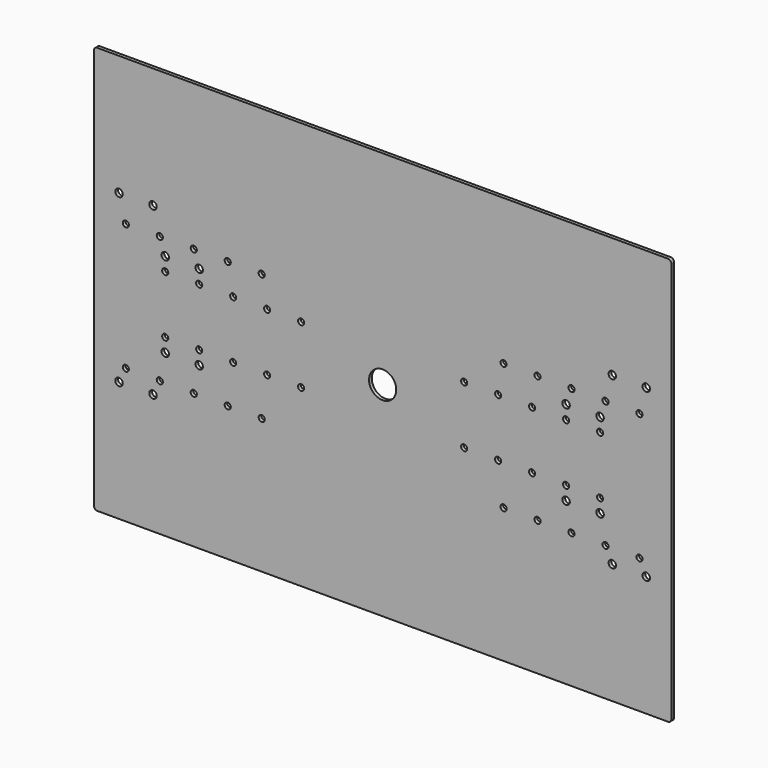
from build123d import *

# Parameters (mm, degrees)
F0_W     = 850
F0_H     = 600
F0_R     = 5.5
F0_R_2   = 4.5
F0_R_3   = 20
F1_DEPTH = 5
F2_R     = 5


with BuildPart() as f1:
    # F0 (on Front) → F1 (new body)
    with BuildSketch(Plane.XZ):
        Rectangle(F0_W, F0_H)
        with Locations((-388, -122.5)):
            Circle(F0_R, mode=Mode.SUBTRACT)
        with Locations((-338, -122.5)):
            Circle(F0_R, mode=Mode.SUBTRACT)
        with Locations((-378, -101.5)):
            Circle(F0_R_2, mode=Mode.SUBTRACT)
        with Locations((-328, -101.5)):
            Circle(F0_R_2, mode=Mode.SUBTRACT)
        with Locations((-278, -101.5)):
            Circle(F0_R_2, mode=Mode.SUBTRACT)
        with Locations((-228, -101.5)):
            Circle(F0_R_2, mode=Mode.SUBTRACT)
        with Locations((-320, -62.5)):
            Circle(F0_R, mode=Mode.SUBTRACT)
        with Locations((-320, -42.5)):
            Circle(F0_R_2, mode=Mode.SUBTRACT)
        with Locations((-270, -62.5)):
            Circle(F0_R, mode=Mode.SUBTRACT)
        with Locations((-270, -42.5)):
            Circle(F0_R_2, mode=Mode.SUBTRACT)
        with Locations((-220, -42.5)):
            Circle(F0_R_2, mode=Mode.SUBTRACT)
        with Locations((-178, -101.5)):
            Circle(F0_R_2, mode=Mode.SUBTRACT)
        with Locations((-170, -42.5)):
            Circle(F0_R_2, mode=Mode.SUBTRACT)
        with Locations((-120, -42.5)):
            Circle(F0_R_2, mode=Mode.SUBTRACT)
        with Locations((178, -101.5)):
            Circle(F0_R_2, mode=Mode.SUBTRACT)
        with Locations((120, -42.5)):
            Circle(F0_R_2, mode=Mode.SUBTRACT)
        with Locations((170, -42.5)):
            Circle(F0_R_2, mode=Mode.SUBTRACT)
        with Locations((228, -101.5)):
            Circle(F0_R_2, mode=Mode.SUBTRACT)
        with Locations((278, -101.5)):
            Circle(F0_R_2, mode=Mode.SUBTRACT)
        with Locations((338, -122.5)):
            Circle(F0_R, mode=Mode.SUBTRACT)
        with Locations((388, -122.5)):
            Circle(F0_R, mode=Mode.SUBTRACT)
        with Locations((328, -101.5)):
            Circle(F0_R_2, mode=Mode.SUBTRACT)
        with Locations((378, -101.5)):
            Circle(F0_R_2, mode=Mode.SUBTRACT)
        with Locations((220, -42.5)):
            Circle(F0_R_2, mode=Mode.SUBTRACT)
        with Locations((270, -62.5)):
            Circle(F0_R, mode=Mode.SUBTRACT)
        with Locations((270, -42.5)):
            Circle(F0_R_2, mode=Mode.SUBTRACT)
        with Locations((320, -62.5)):
            Circle(F0_R, mode=Mode.SUBTRACT)
        with Locations((320, -42.5)):
            Circle(F0_R_2, mode=Mode.SUBTRACT)
        with Locations((-320, 42.5)):
            Circle(F0_R_2, mode=Mode.SUBTRACT)
        with Locations((-320, 62.5)):
            Circle(F0_R, mode=Mode.SUBTRACT)
        with Locations((-270, 42.5)):
            Circle(F0_R_2, mode=Mode.SUBTRACT)
        with Locations((-270, 62.5)):
            Circle(F0_R, mode=Mode.SUBTRACT)
        with Locations((-220, 42.5)):
            Circle(F0_R_2, mode=Mode.SUBTRACT)
        with Locations((-378, 85.5)):
            Circle(F0_R_2, mode=Mode.SUBTRACT)
        with Locations((-328, 85.5)):
            Circle(F0_R_2, mode=Mode.SUBTRACT)
        with Locations((-388, 122.5)):
            Circle(F0_R, mode=Mode.SUBTRACT)
        with Locations((-338, 122.5)):
            Circle(F0_R, mode=Mode.SUBTRACT)
        with Locations((-278, 85.5)):
            Circle(F0_R_2, mode=Mode.SUBTRACT)
        with Locations((-228, 85.5)):
            Circle(F0_R_2, mode=Mode.SUBTRACT)
        with Locations((-170, 42.5)):
            Circle(F0_R_2, mode=Mode.SUBTRACT)
        with Locations((-120, 42.5)):
            Circle(F0_R_2, mode=Mode.SUBTRACT)
        Circle(F0_R_3, mode=Mode.SUBTRACT)
        with Locations((-178, 85.5)):
            Circle(F0_R_2, mode=Mode.SUBTRACT)
        with Locations((120, 42.5)):
            Circle(F0_R_2, mode=Mode.SUBTRACT)
        with Locations((170, 42.5)):
            Circle(F0_R_2, mode=Mode.SUBTRACT)
        with Locations((178, 85.5)):
            Circle(F0_R_2, mode=Mode.SUBTRACT)
        with Locations((220, 42.5)):
            Circle(F0_R_2, mode=Mode.SUBTRACT)
        with Locations((270, 42.5)):
            Circle(F0_R_2, mode=Mode.SUBTRACT)
        with Locations((270, 62.5)):
            Circle(F0_R, mode=Mode.SUBTRACT)
        with Locations((320, 42.5)):
            Circle(F0_R_2, mode=Mode.SUBTRACT)
        with Locations((320, 62.5)):
            Circle(F0_R, mode=Mode.SUBTRACT)
        with Locations((228, 85.5)):
            Circle(F0_R_2, mode=Mode.SUBTRACT)
        with Locations((278, 85.5)):
            Circle(F0_R_2, mode=Mode.SUBTRACT)
        with Locations((328, 85.5)):
            Circle(F0_R_2, mode=Mode.SUBTRACT)
        with Locations((378, 85.5)):
            Circle(F0_R_2, mode=Mode.SUBTRACT)
        with Locations((338, 122.5)):
            Circle(F0_R, mode=Mode.SUBTRACT)
        with Locations((388, 122.5)):
            Circle(F0_R, mode=Mode.SUBTRACT)
    extrude(amount=F1_DEPTH)

    # F2
    f2_edges = [f1.edges().sort_by_distance(p)[0] for p in [
        (-425, -2.5, 300),
        (425, -2.5, 300),
        (425, -2.5, -300),
        (-425, -2.5, -300),
    ]]
    fillet(f2_edges, radius=F2_R)


solid = f1.part
